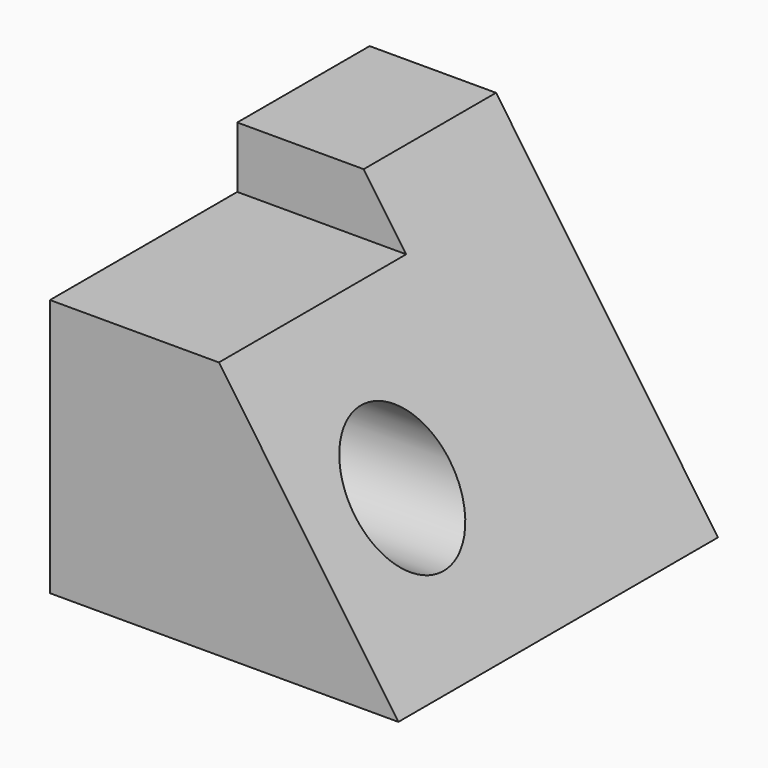
from build123d import *

# Parameters (mm, degrees)
F0_W     = 98.9725068212
F0_H     = 67.7649602294
F1_DEPTH = 25.4
F2_DEPTH = 43.434
F3_DEPTH = 79.502
F4_R     = 15.6101521233
F5_DEPTH = 98.552
F7_DEPTH = 61.468
F9_DEPTH = 113.03


with BuildPart() as f1:
    # F0 (on Front) → F1 (new body)
    with BuildSketch(Plane.XZ):
        Polygon((57.0652261376, 41.9072769582), (-57.0652261376, 41.9072769582), (-57.0652261376, 25.8576832712), (41.9072806835, 25.8576832712), (41.9072806835, -41.9072769582), (57.0652261376, -41.9072769582), align=None)
        with Locations((-7.5789727271, -8.0247968435)):
            Rectangle(F0_W, F0_H)
    extrude(amount=F1_DEPTH)

    # F0 (on Front) → F2 (join)
    with BuildSketch(Plane.XZ):
        Polygon((57.0652261376, 41.9072769582), (-57.0652261376, 41.9072769582), (-57.0652261376, 25.8576832712), (41.9072806835, 25.8576832712), (41.9072806835, -41.9072769582), (57.0652261376, -41.9072769582), align=None)
    extrude(amount=F2_DEPTH)

    # F3 (add): a face of the model
    f3_faces = [f1.faces().sort_by_distance(p)[0] for p in [
        (-7.5789727271, -25.4, -8.0247968435),
    ]]
    extrude(f3_faces, amount=F3_DEPTH)

    # F4 (on face) → F5 (cut)
    with BuildSketch(Plane.YZ.offset(41.9072806835)):
        with Locations((-74.168, -8.0247968435)):
            Circle(F4_R)
    extrude(amount=-F5_DEPTH, mode=Mode.SUBTRACT)

    # F6 (on face) → F7 (cut)
    with BuildSketch(Plane.XZ.offset(104.902)):
        Polygon((-7.5789727271, 25.8576832712), (41.9072806835, -41.9072769582), (41.9072806835, 25.8576832712), align=None)
    extrude(amount=-F7_DEPTH, mode=Mode.SUBTRACT)

    # F8 (on Front) → F9 (cut, symmetric)
    with BuildSketch(Plane.XZ):
        Polygon((40.1673130691, 75.5145400763), (-28.9204549044, 49.1647869349), (43.7020324171, -55.2702136338), (114.3328375611, -6.154642004), align=None)
    extrude(amount=F9_DEPTH, both=True, mode=Mode.SUBTRACT)


solid = f1.part
